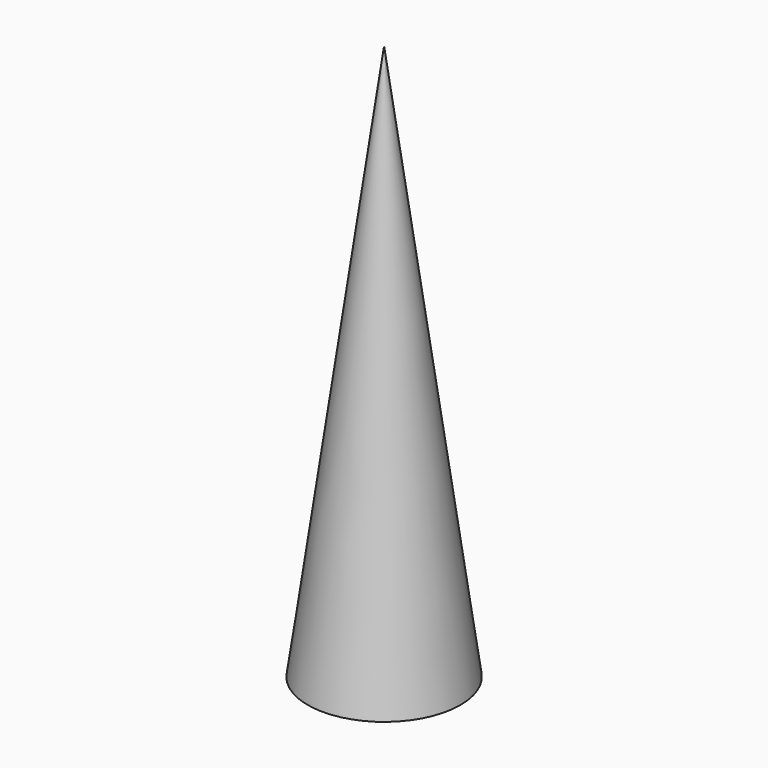
from build123d import *

# Parameters (mm, degrees)
SKETCH_R  = 39.35
PAD_DEPTH = 286
PAD_TAPER = 7.83


with BuildPart() as part:
    # Sketch → Pad (new body)
    with BuildSketch(Plane.XY):
        Circle(SKETCH_R)
    extrude(amount=PAD_DEPTH, taper=PAD_TAPER)


solid = part.part
